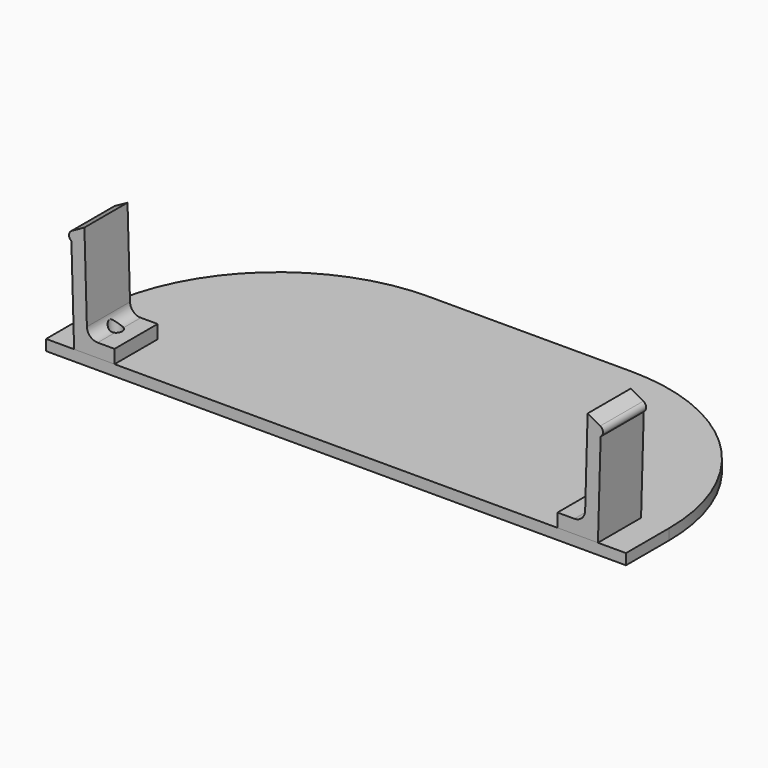
from build123d import *

# Parameters (mm, degrees)
F0_W       = 5
F0_H       = 10
F1_DEPTH   = 2
F3_DEPTH   = 10
F4_R       = 2
F4_2_R     = 2
F5_R       = 1
F5_2_R     = 1
F7_D       = 2.4
F7_DEPTH   = 6
F7_TIP     = 0.7210327428
F7_2_D     = 2.4
F7_2_DEPTH = 6
F7_2_TIP   = 0.7210327428
F7_3_D     = 2.4
F7_3_DEPTH = 6
F7_3_TIP   = 0.7210327428


with BuildPart() as f1:
    # F0 (on Top) → F1 (new body)
    with BuildSketch(Plane.XY):
        with BuildLine():
            Line((18.8, 40), (-18.8, 40))
            ThreePointArc((-18.8, 40), (-40.0132034356, 31.2132034356), (-48.8, 10))
            Line((-48.8, 10), (-48.8, 0))
            Line((-48.8, 0), (48.8, 0))
            Line((48.8, 0), (48.8, 10))
            ThreePointArc((48.8, 10), (40.0132034356, 31.2132034356), (18.8, 40))
        make_face()
        with BuildLine():
            ThreePointArc((-48.8, 10), (-40.0132034356, 31.2132034356), (-18.8, 40))
            Line((-18.8, 40), (18.8, 40))
            ThreePointArc((18.8, 40), (40.0132034356, 31.2132034356), (48.8, 10))
            Line((48.8, 10), (53.8, 10))
            ThreePointArc((53.8, 10), (43.5487373415, 34.7487373415), (18.8, 45))
            Line((18.8, 45), (-18.8, 45))
            ThreePointArc((-18.8, 45), (-43.5487373415, 34.7487373415), (-53.8, 10))
            Line((-53.8, 10), (-48.8, 10))
        make_face()
        with Locations((51.3, 5)):
            Rectangle(F0_W, F0_H)
        with Locations((-51.3, 5)):
            Rectangle(F0_W, F0_H)
    extrude(amount=F1_DEPTH)

    # F7
    with Locations(Plane(origin=(0, 0, 0), x_dir=(1, 0, 0), z_dir=(0, 0, -1))):
        with Locations((44.85, -5), (-44.85, -5)):
            Hole(F7_D / 2, depth=F7_DEPTH)
            with Locations((0, 0, -(F7_DEPTH + F7_TIP / 2))):  # 118° drill point
                Cone(0, F7_D / 2, F7_TIP, mode=Mode.SUBTRACT)


with BuildPart() as f3:
    # F2 (on face) → F3 (new body)
    with BuildSketch(Plane.XZ):
        Polygon((-48.6, 2), (-46.1, 2), (-46.1714285714, 4.5), (-46.6857142857, 22.5), (-50.3, 20.5), (-49.1, 19.5), align=None)
        Polygon((-46.1, 2), (-41.1, 2), (-41.1, 4.5), (-46.1714285714, 4.5), align=None)
    extrude(amount=-F3_DEPTH)

    # F4#2
    f4_2_edges = [f3.edges().sort_by_distance(p)[0] for p in [
        (-46.171429, 5, 4.5),
    ]]
    fillet(f4_2_edges, radius=F4_2_R)

    # F5#2
    f5_2_edges = [f3.edges().sort_by_distance(p)[0] for p in [
        (-50.3, 5, 20.5),
    ]]
    fillet(f5_2_edges, radius=F5_2_R)

    # F7#2
    with Locations(Plane(origin=(0, 0, 0), x_dir=(1, 0, 0), z_dir=(0, 0, -1))):
        with Locations((44.85, -5), (-44.85, -5)):
            Hole(F7_2_D / 2, depth=F7_2_DEPTH)
            with Locations((0, 0, -(F7_2_DEPTH + F7_2_TIP / 2))):  # 118° drill point
                Cone(0, F7_2_D / 2, F7_2_TIP, mode=Mode.SUBTRACT)


with BuildPart() as f3b:
    # F2 (on face) → F3, piece 2 (new body)
    with BuildSketch(Plane.XZ):
        Polygon((41.1, 4.5), (41.1, 2), (46.1, 2), (46.1714285714, 4.5), align=None)
        Polygon((46.1714285714, 4.5), (46.1, 2), (48.6, 2), (49.1, 19.5), (50.3, 20.5), (46.6857142857, 22.5), align=None)
    extrude(amount=-F3_DEPTH)

    # F4
    f4_edges = [f3b.edges().sort_by_distance(p)[0] for p in [
        (46.171429, 5, 4.5),
    ]]
    fillet(f4_edges, radius=F4_R)

    # F5
    f5_edges = [f3b.edges().sort_by_distance(p)[0] for p in [
        (50.3, 5, 20.5),
    ]]
    fillet(f5_edges, radius=F5_R)

    # F7#3
    with Locations(Plane(origin=(0, 0, 0), x_dir=(1, 0, 0), z_dir=(0, 0, -1))):
        with Locations((44.85, -5), (-44.85, -5)):
            Hole(F7_3_D / 2, depth=F7_3_DEPTH)
            with Locations((0, 0, -(F7_3_DEPTH + F7_3_TIP / 2))):  # 118° drill point
                Cone(0, F7_3_D / 2, F7_3_TIP, mode=Mode.SUBTRACT)


solid = Compound([f1.part, f3.part, f3b.part])
